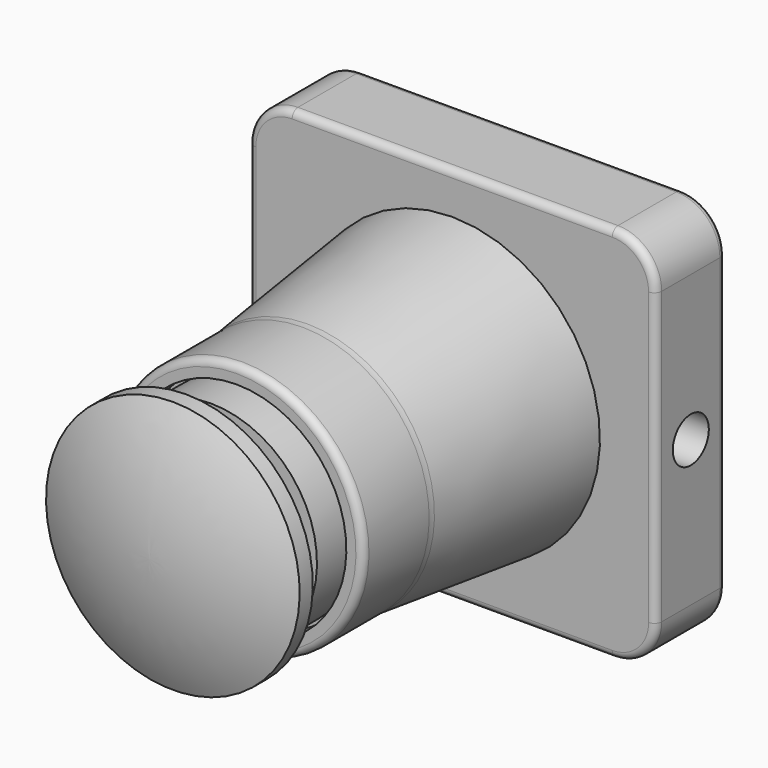
from build123d import *

# Parameters (mm, degrees)
PAD_DEPTH    = 3
SKETCH002_R  = 1.547521
POCKET_DEPTH = 5
FILLET_R     = 0.5
FILLET001_R  = 0.5
FILLET002_R  = 0.5


with BuildPart() as body:
    # Sketch → Pad (new body, symmetric)
    with BuildSketch(Plane.XZ):
        with BuildLine():
            Line((-11, 13), (11, 13))
            ThreePointArc((14, 10), (13.12132, 12.12132), (11, 13))
            Line((14, 10), (14, -10))
            ThreePointArc((11, -13), (13.12132, -12.12132), (14, -10))
            Line((11, -13), (-11, -13))
            ThreePointArc((-14, -10), (-13.12132, -12.12132), (-11, -13))
            Line((-14, -10), (-14, 10))
            ThreePointArc((-11, 13), (-13.12132, 12.12132), (-14, 10))
        make_face()
    extrude(amount=PAD_DEPTH, both=True)

    # Sketch002 → Pocket (cut)
    with BuildSketch(Plane(origin=(14, 0, 0), x_dir=(0, 0, 1), z_dir=(1, 0, 0))):
        Circle(SKETCH002_R)
    extrude(amount=-POCKET_DEPTH, mode=Mode.SUBTRACT)

    # Fillet
    fillet_edges = [body.edges().sort_by_distance(p)[0] for p in [
        (0, -3, 13),
        (13.12132, -3, 12.12132),
        (14, -3, 0),
        (13.12132, -3, -12.12132),
        (0, -3, -13),
        (-13.12132, -3, -12.12132),
        (-14, -3, 0),
        (-13.12132, -3, 12.12132),
    ]]
    fillet(fillet_edges, radius=FILLET_R)

    # Fillet001
    fillet001_edges = [body.edges().sort_by_distance(p)[0] for p in [
        (0, 3, 13),
        (13.12132, 3, 12.12132),
        (14, 3, 0),
        (13.12132, 3, -12.12132),
        (0, 3, -13),
        (-13.12132, 3, -12.12132),
        (-14, 3, 0),
        (-13.12132, 3, 12.12132),
    ]]
    fillet(fillet001_edges, radius=FILLET001_R)


with BuildPart() as body001:
    # CopySketch003 → Revolution001 (revolve)
    with BuildSketch(Plane.YZ):
        with BuildLine():
            Line((-0.000444, 0), (-0.000444, 10.501763))
            Line((-0.000444, 10.501763), (-15.439711, 8.733137))
            ThreePointArc((-15.864398, 8.708892), (-15.651709, 8.714958), (-15.439711, 8.733137))
            Line((-15.864398, 8.708892), (-21.530018, 8.708892))
            Line((-21.530018, 8.708892), (-21.530018, 7.549359))
            Line((-21.530018, 7.549359), (-20.07255, 7.549359))
            Line((-20.07255, 7.549359), (-20.07255, 0))
            Line((-20.07255, 0), (-0.000444, 0))
        make_face()
    revolve(axis=Axis((0, 0, 0), (0, 1, 0)))

    # Fillet002
    fillet002_edges = [body001.edges().sort_by_distance(p)[0] for p in [
        (0, -21.530018, -8.708892),
    ]]
    fillet(fillet002_edges, radius=FILLET002_R)


with BuildPart() as body002:
    # CopySketch003001 → Revolution002 (revolve)
    with BuildSketch(Plane.YZ):
        with BuildLine():
            Line((-20.226365, 7.294187), (-23.734522, 7.294187))
            Line((-23.734522, 7.294187), (-23.734522, 6))
            Line((-23.734522, 6), (-25.872398, 6))
            Line((-25.872398, 6), (-25.872398, 8.718128))
            Line((-25.872398, 8.718128), (-27, 8.718128))
            ThreePointArc((-27, 8.718128), (-28.493708, 4.472315), (-29.00016, 0))
            Line((-29.00016, 0), (-20.226365, 0))
            Line((-20.226365, 0), (-20.226365, 7.294187))
        make_face()
    revolve(axis=Axis((0, 0, 0), (0, 1, 0)))


solid = Compound([body.part, body001.part, body002.part])
